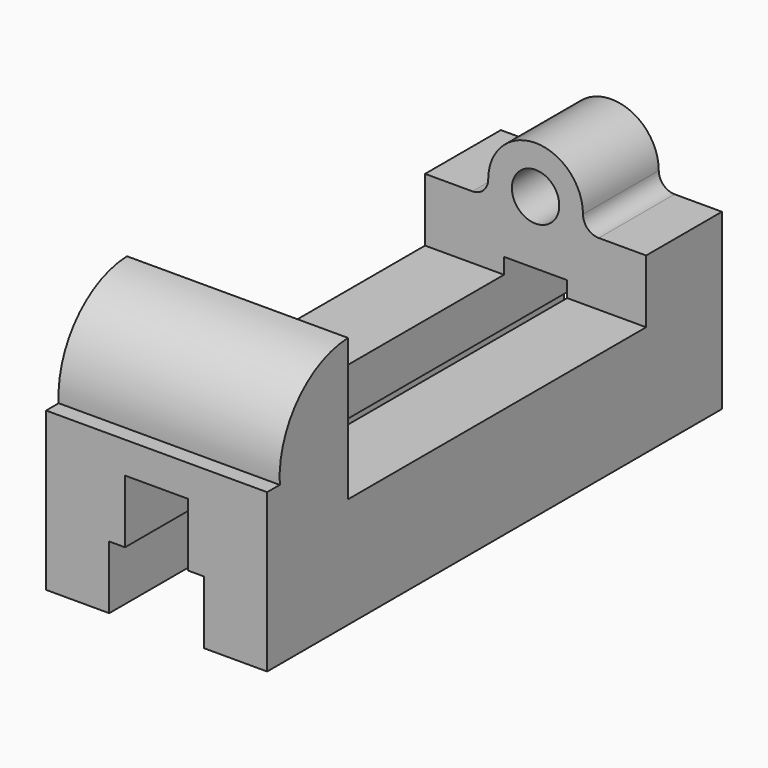
from build123d import *

# Parameters (mm, degrees)
PAD_DEPTH       = 180
SKETCH001_W     = 29.620193
SKETCH001_H     = 118
POCKET_DEPTH    = 70.001
SKETCH002_W     = 70
SKETCH002_H     = 7.16013
PAD001_DEPTH    = 30
SKETCH003_R     = 15
SKETCH003_R_2   = 7.5
PAD002_DEPTH    = 30
FILLET_R        = 5
FILLET001_R     = 5
SKETCH004_R     = 7.5
POCKET001_DEPTH = 30
PAD003_DEPTH    = 70


with BuildPart() as part:
    # Sketch → Pad (new body)
    with BuildSketch(Plane.XZ):
        Polygon((15, 0), (35, 0), (35, 50), (-35, 50), (-35, 0), (-15, 0), (-15, 20), (-10, 20), (-10, 40), (10, 40), (10, 20), (15, 20), align=None)
    extrude(amount=-PAD_DEPTH)

    # Sketch001 → Pocket (cut, through all)
    with BuildSketch(Plane(origin=(35, 0, 0), x_dir=(0, 0, 1), z_dir=(1, 0, 0))):
        with Locations((49.810097, -91)):
            Rectangle(SKETCH001_W, SKETCH001_H)
    extrude(amount=-POCKET_DEPTH, mode=Mode.SUBTRACT)

    # Sketch002 → Pad001 (new body)
    with BuildSketch(Plane(origin=(0, 180, 0), x_dir=(1, 0, 0), z_dir=(0, 1, 0))):
        with Locations((0, -51.419935)):
            Rectangle(SKETCH002_W, SKETCH002_H)
    extrude(amount=-PAD001_DEPTH)

    # Sketch003 → Pad002 (new body)
    with BuildSketch(Plane.XZ.offset(-150)):
        with Locations((0, 60)):
            Circle(SKETCH003_R)
        with Locations((0, 60)):
            Circle(SKETCH003_R_2, mode=Mode.SUBTRACT)
    extrude(amount=-PAD002_DEPTH)

    # Fillet
    fillet_edges = [part.edges().sort_by_distance(p)[0] for p in [
        (14.142136, 165, 55),
    ]]
    fillet(fillet_edges, radius=FILLET_R)

    # Fillet001
    fillet001_edges = [part.edges().sort_by_distance(p)[0] for p in [
        (-14.142136, 165, 55),
    ]]
    fillet(fillet001_edges, radius=FILLET001_R)

    # Sketch004 → Pocket001 (cut)
    with BuildSketch(Plane(origin=(0, 180, 0), x_dir=(1, 0, 0), z_dir=(0, 1, 0))):
        with Locations((0, -60)):
            Circle(SKETCH004_R)
    extrude(amount=-POCKET001_DEPTH, mode=Mode.SUBTRACT)

    # Sketch005 → Pad003 (new body)
    with BuildSketch(Plane(origin=(35, 0, 0), x_dir=(0, 0, 1), z_dir=(1, 0, 0))):
        with BuildLine():
            Line((50, -32), (80, -32))
            ThreePointArc((80, -32), (70.746374, -12.11514), (50, -5))
            Line((50, -32), (50, -5))
        make_face()
    extrude(amount=-PAD003_DEPTH)


solid = part.part
